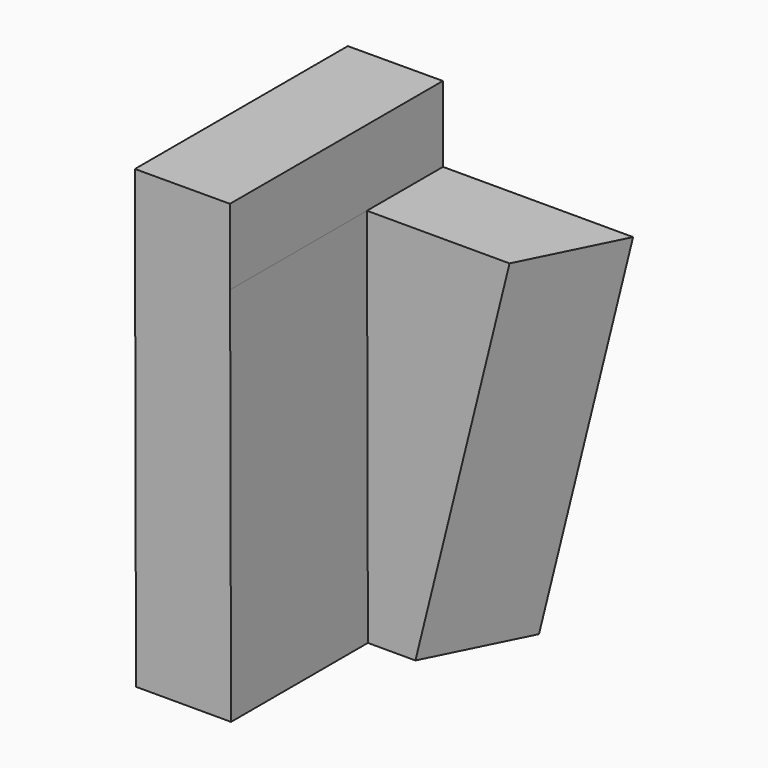
from build123d import *

# Parameters (mm, degrees)
F4_W     = 70
F4_H     = 20
F5_DEPTH = 25


with BuildPart() as f3:
    # F2 (on Top) → F3 section 0
    with BuildSketch(Plane.XY):
        Polygon((-31.25, 31.666667), (-31.25, -38.333333), (-6.25, -38.333333), (-6.25, 6.666667), (6.25, 6.666667), (18.75, 31.666667), align=None)
    # F1 (on offset) → F3 section 1
    with BuildSketch(Plane.XY.offset(100)):
        Polygon((-31.491961, 31.666667), (-31.491961, -38.333333), (-6.491961, -38.333333), (-6.491961, 6.666667), (31.008039, 6.666667), (43.508039, 31.666667), align=None)
    loft()

    # F4 (on face) → F5 (join)
    with BuildSketch(Plane(origin=(-6.249963, 0, -0.015122), x_dir=(0, 1, 0), z_dir=(0.999997, 0, 0.00242))):
        with Locations((-3.333333, 109.894435)):
            Rectangle(F4_W, F4_H)
    extrude(amount=-F5_DEPTH)


solid = f3.part
